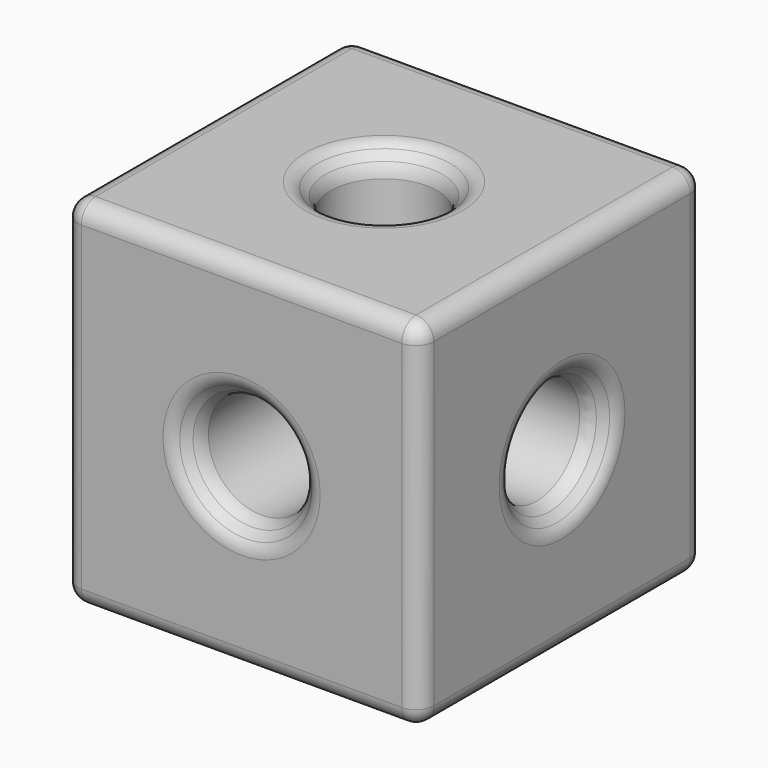
from build123d import *

# Parameters (mm, degrees)
F0_W     = 100
F0_H     = 100
F0_R     = 15
F1_DEPTH = 50
F2_R     = 15
F3_DEPTH = 100.001
F4_R     = 15
F5_DEPTH = 100.001
F6_R     = 5
F7_SIZE  = 5
F8_R     = 5


with BuildPart() as f1:
    # F0 (on Front) → F1 (new body, symmetric)
    with BuildSketch(Plane.XZ):
        Rectangle(F0_W, F0_H)
        Circle(F0_R, mode=Mode.SUBTRACT)
    extrude(amount=F1_DEPTH, both=True)

    # F2 (on face) → F3 (cut, through all)
    with BuildSketch(Plane.XY.offset(50)):
        Circle(F2_R)
    extrude(amount=-F3_DEPTH, mode=Mode.SUBTRACT)

    # F4 (on face) → F5 (cut, through all)
    with BuildSketch(Plane.YZ.offset(50)):
        Circle(F4_R)
    extrude(amount=-F5_DEPTH, mode=Mode.SUBTRACT)

    # F6
    f6_edges = [f1.edges().sort_by_distance(p)[0] for p in [
        (0, 50, 50),
        (-50, 0, 50),
        (0, -50, 50),
        (50, 0, 50),
        (50, 50, 0),
        (-50, 50, 0),
        (0, 50, -50),
        (50, -50, 0),
        (50, 0, -50),
        (0, -50, -50),
        (-50, -50, 0),
        (-50, 0, -50),
    ]]
    fillet(f6_edges, radius=F6_R)

    # F7
    f7_edges = [f1.edges().sort_by_distance(p)[0] for p in [
        (-15, 0, 50),
        (50, -15, 0),
        (-15, -50, 0),
        (-15, 0, -50),
        (-50, -15, 0),
        (-15, 50, 0),
    ]]
    chamfer(f7_edges, length=F7_SIZE)

    # F8
    f8_edges = [f1.edges().sort_by_distance(p)[0] for p in [
        (-20, 0, 50),
        (17.5, 0, 47.5),
        (-15, 0, 45),
        (-50, -20, 0),
        (-45, -15, 0),
        (-15, -45, 0),
        (-20, -50, 0),
        (50, -20, 0),
        (45, -15, 0),
        (-20, 50, 0),
        (-15, 45, 0),
        (-20, 0, -50),
        (-15, 0, -45),
    ]]
    fillet(f8_edges, radius=F8_R)


solid = f1.part
